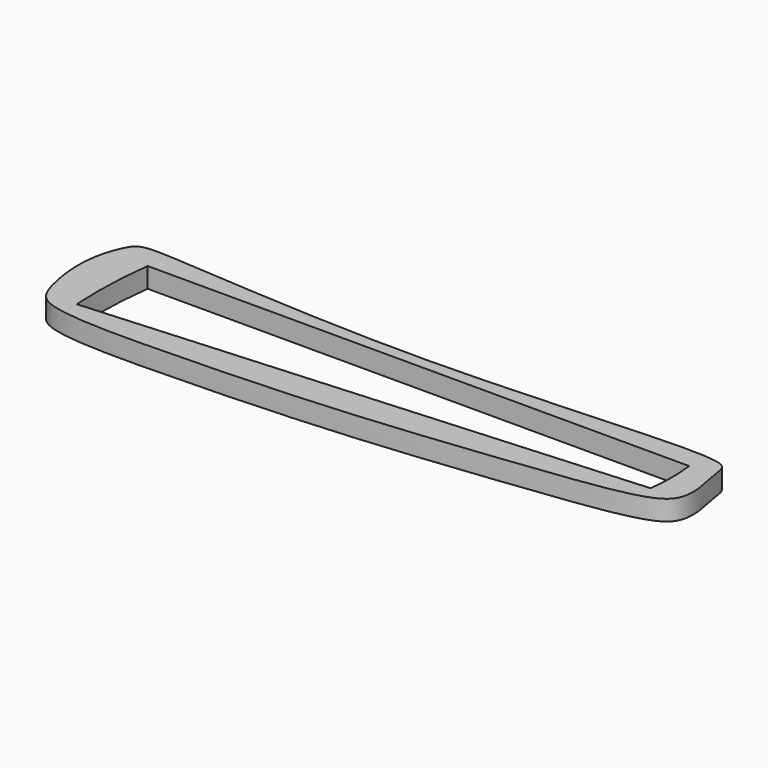
from build123d import *

# Parameters (mm, degrees)
F1_DEPTH = 5


with BuildPart() as f1:
    # F0 (on Top) → F1 (new body)
    with BuildSketch(Plane.XY):
        with BuildLine():
            add(Edge.make_bspline(
                [(-79.1075229645, -9.6317501739), (-79.260868189, -6.7485904226), (-78.8468620838, -2.3544294122), (-76.9306761237, 3.010845314), (-74.9737079713, 5.9247559653), (-65.3128214546, 6.1243412532), (-1.900436505, 0.0454184088), (68.6608504894, 7.3397615239), (72.5119965518, 3.2276416047), (72.7690937776, -0.1886687478), (74.0678457478, -5.0187425005), (74.3351063702, -11.4591995289), (69.2706394369, -16.3807031575), (41.7286188843, -19.8956770436), (-0.3905012568, -24.6531356116), (-39.2972411938, -26.1996962238), (-72.7831690753, -26.5669560748), (-77.6717867215, -20.3369696697), (-78.9267854093, -13.0299338874), (-79.1075229645, -9.6317501739)],
                knots=[0, 0, 0, 0, 0.0415515062, 0.0768531077, 0.1022253199, 0.1421139351, 0.2668564519, 0.3931004015, 0.4199818821, 0.4464228386, 0.4808020551, 0.5176744707, 0.5533407206, 0.6305751585, 0.7310624296, 0.8291667383, 0.912783559, 0.9510260743, 1, 1, 1, 1], degree=3))
        make_face()
        with BuildLine():
            ThreePointArc((-69.0823836662, -21.1870855328), (-69.1909861622, -10.5768318805), (-68.3425143361, 0))
            Line((-68.3425143361, 0), (66.6574856639, 0))
            ThreePointArc((66.6574856639, 0), (67.0506735669, -6), (66.6574856639, -12))
            Line((66.6574856639, -12), (-69.0823836662, -21.1870855328))
        make_face(mode=Mode.SUBTRACT)
    extrude(amount=F1_DEPTH)


solid = f1.part
